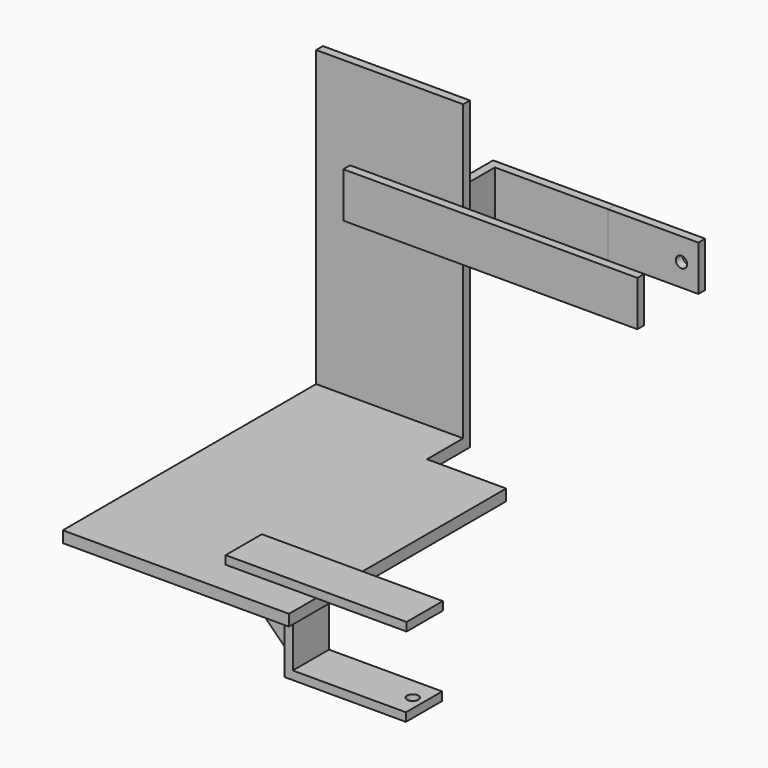
from build123d import *

# Parameters (mm, degrees)
F1_DEPTH   = 12.7
F2_W       = 101.6
F2_H       = 50.8
F3_DEPTH   = 9.525
F4_W       = 9.525
F4_H       = 342.9
F5_DEPTH   = 165.1
F6_W       = 127
F6_H       = 50.8
F6_W_2     = 203.2
F7_DEPTH   = 9.525
F8_W       = 9.525
F8_H       = 50.8
F9_DEPTH   = 76.2
F10_W      = 50.8
F10_H      = 9.525
F11_DEPTH  = 127
F12_W      = 9.525
F12_H      = 76.2
F13_DEPTH  = 76.2
F15_DEPTH  = 25.4
F16_R      = 6.35
F17_DEPTH  = 25.4
F18_W      = 9.525
F18_H      = 50.8
F19_DEPTH  = 76.2
F20_W      = 9.525
F20_H      = 50.8
F21_DEPTH  = 127
F21_FACE_W = 9.525
F21_FACE_H = 50.8
F22_DEPTH  = 101.6
F23_W      = 101.6
F23_H      = 25.4
F24_DEPTH  = 6.35
F25_R      = 6.35
F26_DEPTH  = 25.4
F27_W      = 76.2
F27_H      = 9.525
F28_DEPTH  = 76.2
F30_DEPTH  = 25.4


with BuildPart() as f1:
    # F0 (on Top) → F1 (new body)
    with BuildSketch(Plane.XY):
        Polygon((-127, -177.8), (127, -177.8), (127, 127), (38.1, 127), (38.1, 177.8), (-127, 177.8), align=None)
    extrude(amount=F1_DEPTH)

    # F2 (on face) → F3 (join)
    with BuildSketch(Plane.XY.offset(12.7)):
        with Locations((177.8, -114.3)):
            Rectangle(F2_W, F2_H)
        with Locations((76.2, -114.3)):
            Rectangle(F2_W, F2_H)
    extrude(amount=F3_DEPTH)

    # F4 (on face) → F5 (join, through all)
    with BuildSketch(Plane(origin=(-127, 0, 0), x_dir=(0, -1, 0), z_dir=(-1, 0, 0))):
        with Locations((-182.5625, 171.45)):
            Rectangle(F4_W, F4_H)
    extrude(amount=-F5_DEPTH)

    # F6 (on face) → F7 (join)
    with BuildSketch(Plane.XZ.offset(-177.8)):
        with Locations((-25.4, 215.9)):
            Rectangle(F6_W, F6_H)
        with Locations((139.7, 215.9)):
            Rectangle(F6_W_2, F6_H)
    extrude(amount=F7_DEPTH)

    # F8 (on face) → F9 (join)
    with BuildSketch(Plane(origin=(0, 0, 0), x_dir=(1, 0, 0), z_dir=(0, 0, -1))):
        with Locations((96.8375, 115.246274)):
            Rectangle(F8_W, F8_H)
    extrude(amount=F9_DEPTH)

    # F10 (on face) → F11 (join)
    with BuildSketch(Plane.YZ.offset(101.6)):
        with Locations((-115.246274, -71.4375)):
            Rectangle(F10_W, F10_H)
    extrude(amount=F11_DEPTH)

    # F12 (on face) → F13 (join)
    with BuildSketch(Plane(origin=(92.075, 0, 0), x_dir=(0, -1, 0), z_dir=(-1, 0, 0))):
        with Locations((115.246274, -38.1)):
            Rectangle(F12_W, F12_H)
    extrude(amount=F13_DEPTH)

    # F14 (on face) → F15 (cut)
    with BuildSketch(Plane.XZ.offset(120.008774)):
        Polygon((92.075, -76.2), (15.875, 0), (15.875, -76.2), align=None)
    extrude(amount=-F15_DEPTH, mode=Mode.SUBTRACT)

    # F16 (on face) → F17 (cut)
    with BuildSketch(Plane(origin=(0, 0, -76.2), x_dir=(1, 0, 0), z_dir=(0, 0, -1))):
        with Locations((215.9, 115.246274)):
            Circle(F16_R)
    extrude(amount=-F17_DEPTH, mode=Mode.SUBTRACT)

    # F18 (on face) → F19 (join)
    with BuildSketch(Plane(origin=(0, 187.325, 0), x_dir=(-1, 0, 0), z_dir=(0, 1, 0))):
        with Locations((-7.9375, 215.9)):
            Rectangle(F18_W, F18_H)
    extrude(amount=F19_DEPTH)

    # F20 (on face) → F21 (join)
    with BuildSketch(Plane.YZ.offset(12.7)):
        with Locations((258.7625, 215.9)):
            Rectangle(F20_W, F20_H)
    extrude(amount=F21_DEPTH)

    # F27 (on face) → F28 (join)
    with BuildSketch(Plane(origin=(3.175, 0, 0), x_dir=(0, -1, 0), z_dir=(-1, 0, 0))):
        with Locations((-225.425, 215.9)):
            Rectangle(F27_W, F27_H)
    extrude(amount=F28_DEPTH)

    # F29 (on face) → F30 (cut)
    with BuildSketch(Plane(origin=(0, 0, 211.1375), x_dir=(1, 0, 0), z_dir=(0, 0, -1))):
        Polygon((-73.025, -263.525), (3.175, -263.525), (-73.025, -187.325), align=None)
    extrude(amount=-F30_DEPTH, mode=Mode.SUBTRACT)


with BuildPart() as f22:
    # F21_face (on face) → F22 (new body)
    with BuildSketch(Plane(origin=(139.7, 258.7625, 215.9), x_dir=(0, 1, 0), z_dir=(1, 0, 0))):
        Rectangle(F21_FACE_W, F21_FACE_H)
    extrude(amount=F22_DEPTH)

    # F25 (on face) → F26 (cut)
    with BuildSketch(Plane.XZ.offset(-254)):
        with Locations((222.25, 215.9)):
            Circle(F25_R)
    extrude(amount=-F26_DEPTH, mode=Mode.SUBTRACT)


with BuildPart() as f24:
    # F23 (on face) → F24 (new body)
    with BuildSketch(Plane(origin=(0, 263.525, 0), x_dir=(-1, 0, 0), z_dir=(0, 1, 0))):
        with Locations((-139.7, 215.9)):
            Rectangle(F23_W, F23_H)
    extrude(amount=F24_DEPTH)


solid = Compound([f1.part, f22.part, f24.part])
